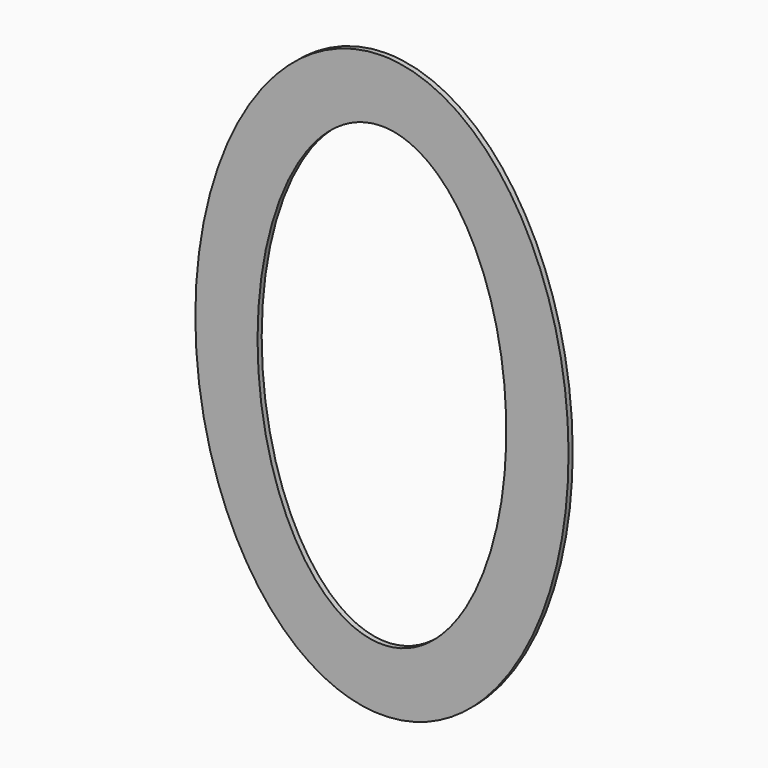
from build123d import *

# Parameters (mm, degrees)
F1_DEPTH = 6.35


with BuildPart() as f1:
    # F0 (on Front) → F1 (new body)
    with BuildSketch(Plane.XZ):
        with BuildLine():
            add(Edge.make_bspline(
                [(0, 355.6), (-395.946815, 355.6), (-197.973407, -177.8), (0, -711.2), (197.973407, -177.8), (395.946815, 355.6), (0, 355.6)],
                knots=[0, 0, 0, 2.094395, 2.094395, 4.18879, 4.18879, 6.283185, 6.283185, 6.283185], degree=2, weights=[1, 0.5, 1, 0.5, 1, 0.5, 1]))
        make_face()
        with BuildLine():
            add(Edge.make_bspline(
                [(0, 279.4), (-263.964543, 279.4), (-131.982272, -139.7), (0, -558.8), (131.982272, -139.7), (263.964543, 279.4), (0, 279.4)],
                knots=[0, 0, 0, 2.094395, 2.094395, 4.18879, 4.18879, 6.283185, 6.283185, 6.283185], degree=2, weights=[1, 0.5, 1, 0.5, 1, 0.5, 1]))
        make_face(mode=Mode.SUBTRACT)
    extrude(amount=F1_DEPTH)


solid = f1.part
